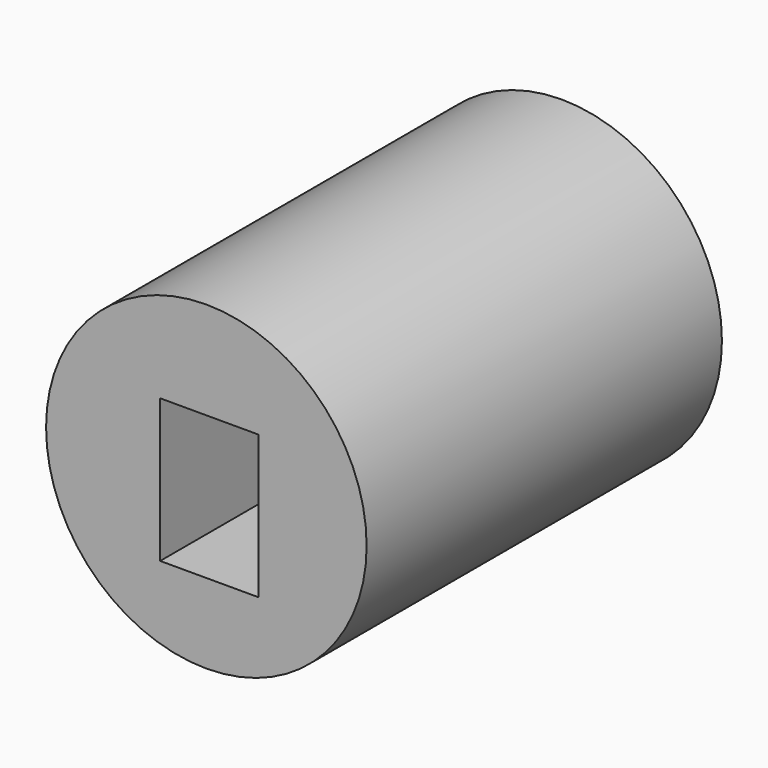
from build123d import *

# Parameters (mm, degrees)
F0_R          = 45.255389
F0_R_2        = 5.734106
F1_DEPTH      = 5
F2_R          = 45.255389
F2_W          = 27.738073
F2_H          = 40.435255
F3_DEPTH      = 100
F3_DEPTH_BACK = 25.4


with BuildPart() as f1:
    # F0 (on Front) → F1 (new body, symmetric)
    with BuildSketch(Plane.XZ):
        Circle(F0_R)
        Circle(F0_R_2, mode=Mode.SUBTRACT)
    extrude(amount=F1_DEPTH, both=True)

    # F2 (on face) → F3 (join, two sides)
    with BuildSketch(Plane.XZ.offset(5)) as f3_sk:
        Circle(F2_R)
        with Locations((0.834415, -2.516448)):
            Rectangle(F2_W, F2_H, mode=Mode.SUBTRACT)
    extrude(amount=F3_DEPTH)
    extrude(f3_sk.sketch, amount=-F3_DEPTH_BACK)


solid = f1.part
